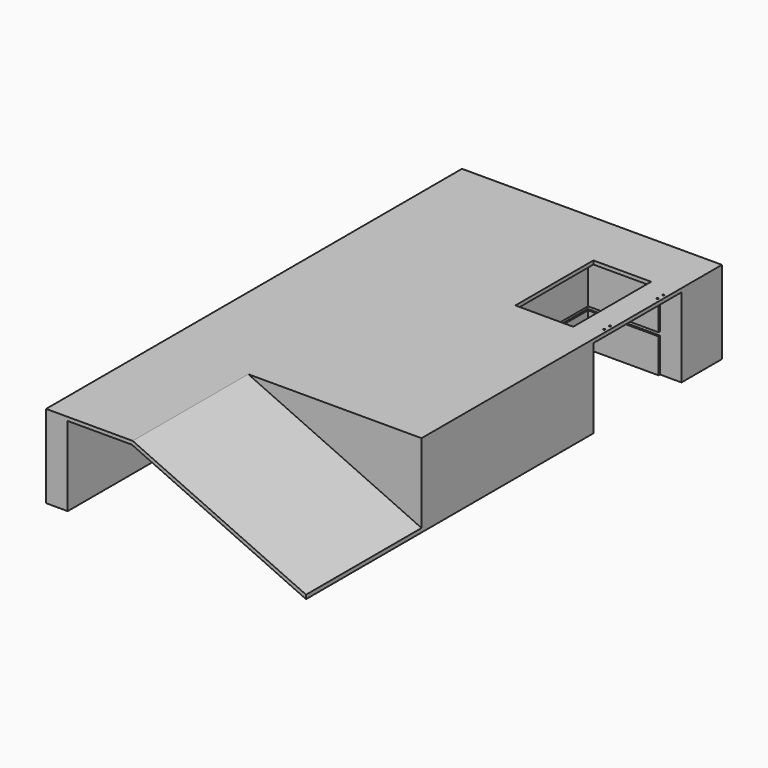
from build123d import *

# Parameters (mm, degrees)
F0_W     = 457.2
F0_H     = 914.4
F0_W_2   = 101.6
F0_H_2   = 171.45
F1_DEPTH = 6.35
F2_W     = 381
F2_H     = 38.1
F2_W_2   = 266.7
F2_W_3   = 38.1
F2_H_2   = 187.325
F3_DEPTH = 139.7
F4_W     = 193.675
F4_H     = 6.35
F5_DEPTH = 165.1
F6_W     = 304.8
F6_H     = 254
F7_DEPTH = 12.7
F9_DEPTH = 254
F11_D    = 3.175


with BuildPart() as f1:
    # F0 (on Top) → F1 (new body)
    with BuildSketch(Plane.XY):
        Rectangle(F0_W, F0_H)
        with Locations((133.35, 271.4625)):
            Rectangle(F0_W_2, F0_H_2, mode=Mode.SUBTRACT)
    extrude(amount=F1_DEPTH)

    # F2 (on face) → F3 (join)
    with BuildSketch(Plane(origin=(0, 0, 0), x_dir=(1, 0, 0), z_dir=(0, 0, -1))):
        Polygon((-190.5, 457.2), (-228.6, 457.2), (-228.6, -457.2), (-190.5, -457.2), (-190.5, -419.1), align=None)
        with Locations((0, -438.15)):
            Rectangle(F2_W, F2_H)
        Polygon((190.5, -403.225), (190.5, -419.1), (190.5, -457.2), (228.6, -457.2), (228.6, -368.3), (190.5, -368.3), align=None)
        Polygon((228.6, -174.625), (228.6, 203.2), (190.5, 203.2), (190.5, 165.1), (190.5, -139.7), (190.5, -174.625), align=None)
        with Locations((57.15, 184.15)):
            Rectangle(F2_W_2, F2_H)
        Polygon((28.575, -403.225), (190.5, -403.225), (190.5, -368.3), (190.5, -365.125), (66.675, -365.125), (28.575, -365.125), align=None)
        with Locations((47.625, -271.4625)):
            Rectangle(F2_W_3, F2_H_2)
        Polygon((190.5, -177.8), (190.5, -174.625), (190.5, -139.7), (28.575, -139.7), (28.575, -177.8), (66.675, -177.8), align=None)
    extrude(amount=F3_DEPTH)

    # F4 (on face) → F5 (cut)
    with BuildSketch(Plane.YZ.offset(228.6)):
        with Locations((271.4625, -76.2)):
            Rectangle(F4_W, F4_H)
    extrude(amount=-F5_DEPTH, mode=Mode.SUBTRACT)

    # F6 (on face) → F7 (cut)
    with BuildSketch(Plane.XY.offset(6.35)):
        with Locations((76.2, -330.2)):
            Rectangle(F6_W, F6_H)
    extrude(amount=-F7_DEPTH, mode=Mode.SUBTRACT)

    # F8 (on face) → F9 (join)
    with BuildSketch(Plane.XZ.offset(203.2)):
        Polygon((228.6, -132.720256), (-76.2, 6.35), (-76.2, 0), (-76.2, -0.629744), (228.6, -139.7), align=None)
    extrude(amount=F9_DEPTH)

    # F11 (through all)
    with Locations(Plane.XY.offset(6.35)):
        with Locations((222.25, 336.55), (222.25, 323.85), (222.25, 219.075), (222.25, 206.375)):
            Hole(F11_D / 2)


solid = f1.part
